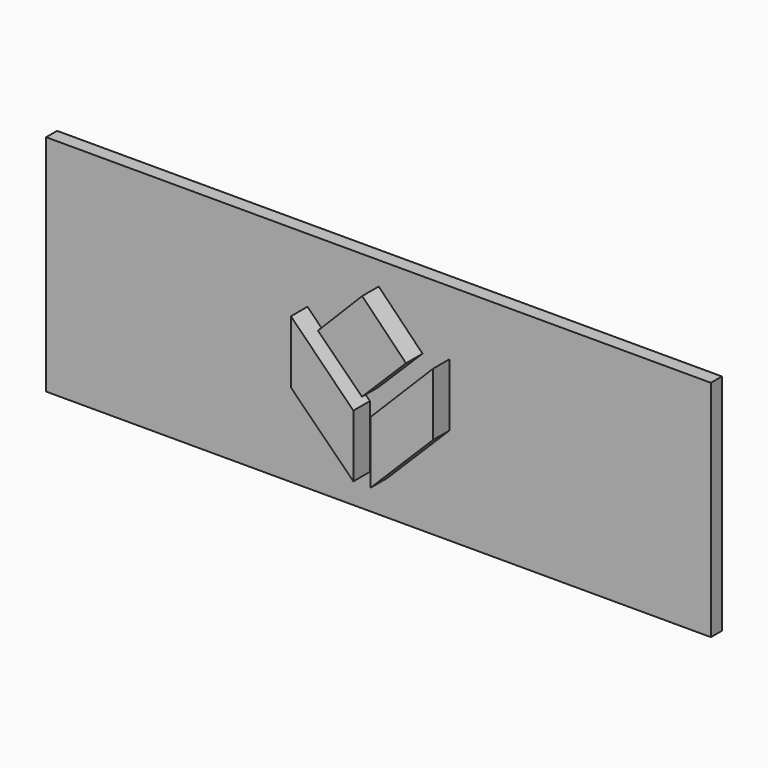
from build123d import *

# Parameters (mm, degrees)
F1_DEPTH = 2.5
F0_W     = 48.26
F0_H     = 16.256
F2_DEPTH = 1


with BuildPart() as f1:
    # F0 (on Front) → F1 (new body)
    with BuildSketch(Plane.XZ):
        Polygon((-0.626079, -1.090966), (-5.15557, 3.46575), (-5.15557, -1.088407), (-0.626079, -5.613511), align=None)
        Polygon((3.197788, 3.181963), (0.015708, 6.438897), (-3.197788, 3.181963), (0, 0), align=None)
        Polygon((5.15557, 3.46575), (0.626079, -1.090966), (0.626079, -5.613511), (5.15557, -1.088407), align=None)
    extrude(amount=F1_DEPTH)


with BuildPart() as f2:
    # F0 (on Front) → F2 (new body)
    with BuildSketch(Plane.XZ):
        Rectangle(F0_W, F0_H)
        Polygon((-5.15557, -1.088407), (-5.15557, 3.46575), (-0.626079, -1.090966), (-0.626079, -5.613511), align=None, mode=Mode.SUBTRACT)
        Polygon((0.626079, -5.613511), (0.626079, -1.090966), (5.15557, 3.46575), (5.15557, -1.088407), align=None, mode=Mode.SUBTRACT)
        Polygon((-3.197788, 3.181963), (0.015708, 6.438897), (3.197788, 3.181963), (0, 0), align=None, mode=Mode.SUBTRACT)
    extrude(amount=F2_DEPTH)


solid = Compound([f1.part, f2.part])
